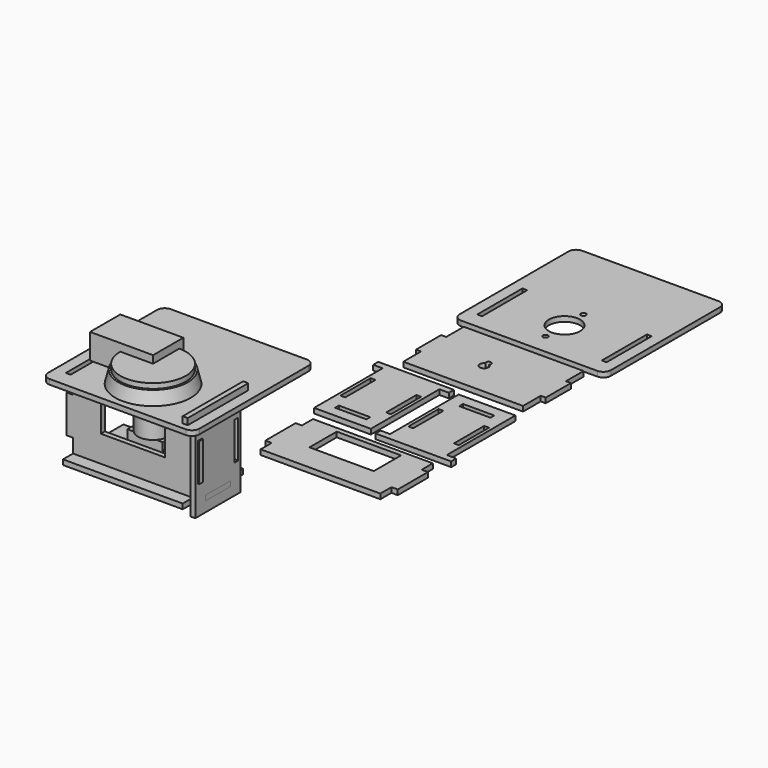
from build123d import *

# Parameters (mm, degrees)
SKETCH001_R              = 26
PAD_DEPTH                = 4
SKETCH002_W              = 28
SKETCH002_H              = 16
PAD001_DEPTH             = 19
SKETCH003_R              = 1.75
PAD002_DEPTH             = 3.5
SKETCH004_W              = 10
SKETCH004_H              = 1
PAD003_DEPTH             = 10
PAD005_DEPTH             = 4
SKETCH010_W              = 3.8
SKETCH010_H              = 30
SKETCH010_W_2            = 24.8
SKETCH010_H_2            = 3.8
POCKET001_DEPTH          = 4.001
PAD006_DEPTH             = 4
POCKET002_DEPTH          = 4.001
SKETCH005_W              = 120
SKETCH005_H              = 120
PAD004_DEPTH             = 4
FILLET_R                 = 6
SKETCH008_W              = 3.8
SKETCH008_H              = 44.8
POCKET_DEPTH             = 4.001
SKETCH013_R              = 2
SKETCH013_R_2            = 12.4
POCKET003_DEPTH          = 4.001
SKETCH014_W              = 51
SKETCH014_H              = 27
PAD007_DEPTH             = 4
CLONE001_ROLL_ANGLE      = -90
CLONE_PITCH_ANGLE        = -90
CLONE_PLACEMENT_ANGLE    = -90
CLONE004_PLACEMENT_ANGLE = 180
BOX_W                    = 30
BOX_H                    = 50
BOX_DEPTH                = 20
BOX_PLACEMENT_ANGLE      = 90


with BuildPart() as pad003:
    # Sketch → Revolution (revolve)
    with BuildSketch(Plane.XZ):
        Polygon((12, -33), (12, 0), (30, 0), (27.5, 10), (0, 10), (0, -33), align=None)
    revolve(axis=Axis((0, 0, 0), (0, 0, 1)))

    # Sketch001 → Pad (new body)
    with BuildSketch(Plane(origin=(0, 0, 10), x_dir=(-1, 0, 0), z_dir=(0, 0, 1))):
        Circle(SKETCH001_R)
    extrude(amount=PAD_DEPTH)

    # Sketch002 → Pad001 (new body)
    with BuildSketch(Plane(origin=(0, 0, -33), x_dir=(1, 0, 0), z_dir=(0, 0, -1))):
        Rectangle(SKETCH002_W, SKETCH002_H)
    extrude(amount=PAD001_DEPTH)

    # Sketch003 → Pad002 (new body)
    with BuildSketch(Plane(origin=(0, 0, 0), x_dir=(1, 0, 0), z_dir=(0, 0, -1))):
        with Locations((0, 18.75)):
            Circle(SKETCH003_R)
        with Locations((0, -18.75)):
            Circle(SKETCH003_R)
    extrude(amount=PAD002_DEPTH)

    # Sketch004 → Pad003 (new body)
    with BuildSketch(Plane.XZ.offset(8)):
        with Locations((19, -39.5)):
            Rectangle(SKETCH004_W, SKETCH004_H)
        with Locations((19, -44.5)):
            Rectangle(SKETCH004_W, SKETCH004_H)
        Polygon((-0.5, -52), (-0.5, -56), (9.5, -56), (9.5, -55), (0.5, -55), (0.5, -52), align=None)
    extrude(amount=-PAD003_DEPTH)


with BuildPart() as pocket001:
    # Sketch006 → Pad005 (new body)
    with BuildSketch(Plane.YZ.offset(47.5)):
        Polygon((22.5, 0), (22.5, -68), (-22.5, -68), (-22.5, 0), (-30, 0), (-30, 5), (30, 5), (30, 0), align=None)
    extrude(amount=PAD005_DEPTH)

    # Sketch010 → Pocket001 (cut, through all)
    with BuildSketch(Plane.YZ.offset(51.5)):
        with Locations((-18.1, -30)):
            Rectangle(SKETCH010_W, SKETCH010_H)
        with Locations((0, -57.9)):
            Rectangle(SKETCH010_W_2, SKETCH010_H_2)
        with Locations((18.1, -30)):
            Rectangle(SKETCH010_W, SKETCH010_H)
    extrude(amount=-POCKET001_DEPTH, mode=Mode.SUBTRACT)


with BuildPart() as pocket002:
    # Sketch011 → Pad006 (new body)
    with BuildSketch(Plane.XY.offset(-56)):
        Polygon((-47.5, 30), (47.5, 30), (47.5, 12.5), (51.5, 12.5), (51.5, -12.5), (47.5, -12.5), (47.5, -30), (-47.5, -30), (-47.5, -12.5), (-51.5, -12.5), (-51.5, 12.5), (-47.5, 12.5), align=None)
    extrude(amount=-PAD006_DEPTH)

    # Sketch012 → Pocket002 (cut, through all)
    with BuildSketch(Plane.XY.offset(-56)):
        with BuildLine():
            ThreePointArc((-6.5, 0.162278), (-5, -6.5), (-3.5, 0.162278))
            ThreePointArc((-3.5, 0.162278), (-5, 3.485153), (-6.5, 0.162278))
        make_face()
    extrude(amount=-POCKET002_DEPTH, mode=Mode.SUBTRACT)


with BuildPart() as pocket003:
    # Sketch005 → Pad004 (new body)
    with BuildSketch(Plane.XY):
        with Locations((0, 25)):
            Rectangle(SKETCH005_W, SKETCH005_H)
    extrude(amount=-PAD004_DEPTH)

    # Fillet
    fillet_edges = [pocket003.edges().sort_by_distance(p)[0] for p in [
        (60, 85, -2),
        (60, -35, -2),
        (-60, -35, -2),
        (-60, 85, -2),
    ]]
    fillet(fillet_edges, radius=FILLET_R)

    # Sketch008 → Pocket (cut, through all)
    with BuildSketch(Plane.XY):
        with Locations((-49.4, 0)):
            Rectangle(SKETCH008_W, SKETCH008_H)
        with Locations((49.4, 0)):
            Rectangle(SKETCH008_W, SKETCH008_H)
    extrude(amount=-POCKET_DEPTH, mode=Mode.SUBTRACT)

    # Sketch013 → Pocket003 (cut, through all)
    with BuildSketch(Plane.XY):
        with Locations((0, 18.75)):
            Circle(SKETCH013_R)
        Circle(SKETCH013_R_2)
        with Locations((0, -18.75)):
            Circle(SKETCH013_R)
    extrude(amount=-POCKET003_DEPTH, mode=Mode.SUBTRACT)


with BuildPart() as pad007:
    # Sketch014 → Pad007 (new body)
    with BuildSketch(Plane.XZ.offset(20)):
        Polygon((-47.5, -4), (47.5, -4), (47.5, -15), (52.5, -15), (52.5, -45), (47.5, -45), (47.5, -56), (-47.5, -56), (-47.5, -45), (-52.5, -45), (-52.5, -15), (-47.5, -15), align=None)
        with Locations((0, -21.5)):
            Rectangle(SKETCH014_W, SKETCH014_H, mode=Mode.SUBTRACT)
    extrude(amount=-PAD007_DEPTH)


with BuildPart() as clone_of_pocket003:
    # Clone003 base: copy of Pocket003
    add(pocket003.part)


with BuildPart() as clone_of_pocket003_1:
    # Clone003 placement: moved
    add(clone_of_pocket003.part.moved(Location((150.021271, 220.451996, 0))))


with BuildPart() as clone_of_pad007:
    # Clone001 base: copy of Pad007
    add(pad007.part)


with BuildPart() as clone_of_pad007_1:
    # Clone001 roll: moved
    add(clone_of_pad007.part.rotate(Axis((0, 0, 0), (1, 0, 0)), CLONE001_ROLL_ANGLE))


with BuildPart() as clone_of_pad007_2:
    # Clone001 placement: moved
    add(clone_of_pad007_1.part.moved(Location((154.403999, 28.975469, -20))))


with BuildPart() as clone_of_pocket001:
    # Clone base: copy of Pocket001
    add(pocket001.part)


with BuildPart() as clone_of_pocket001_1:
    # Clone pitch: moved
    add(clone_of_pocket001.part.rotate(Axis((0, 0, 0), (0, 1, 0)), CLONE_PITCH_ANGLE))


with BuildPart() as clone_of_pocket001_2:
    # Clone placement: moved
    add(clone_of_pocket001_1.part.moved(Location((121.739, 103.622, -50.5))).rotate(Axis((121.739, 103.622, -50.5), (0, 0, 1)), CLONE_PLACEMENT_ANGLE))


with BuildPart() as clone_of_clone_of_pocket001:
    # Clone004 base: copy of Clone of Pocket001
    add(clone_of_pocket001_2.part)


with BuildPart() as clone_of_clone_of_pocket001_1:
    # Clone004 placement: moved
    add(clone_of_clone_of_pocket001.part.moved(Location((302.195, 141.175, 0))).rotate(Axis((302.195, 141.175, 0), (0, 0, 1)), CLONE004_PLACEMENT_ANGLE))


with BuildPart() as clone_of_pocket002:
    # Clone002 base: copy of Pocket002
    add(pocket002.part)


with BuildPart() as clone_of_pocket002_1:
    # Clone002 placement: moved
    add(clone_of_pocket002.part.moved(Location((150, 150, 56))))


with BuildPart() as fusion:
    # Fusion base: copy of Clone of Pocket001
    add(clone_of_pocket001_2.part)

    # Fusion: union Clone of Pocket003, Clone of Pad007, Clone of Clone of Pocket001, Clone of Pocket002
    add(clone_of_pocket003_1.part)
    add(clone_of_pad007_2.part)
    add(clone_of_clone_of_pocket001_1.part)
    add(clone_of_pocket002_1.part)


with BuildPart() as cube:
    # Box → Box (new body)
    with BuildSketch(Plane.XY):
        with Locations((15, 25)):
            Rectangle(BOX_W, BOX_H)
    extrude(amount=BOX_DEPTH)


with BuildPart() as cube_1:
    # Box placement: moved
    add(cube.part.rotate(Axis((0, 0, 0), (0, 0, 1)), BOX_PLACEMENT_ANGLE))


solid = Compound([pad003.part, pocket001.part, pocket002.part, pocket003.part, pad007.part, fusion.part, cube_1.part])
